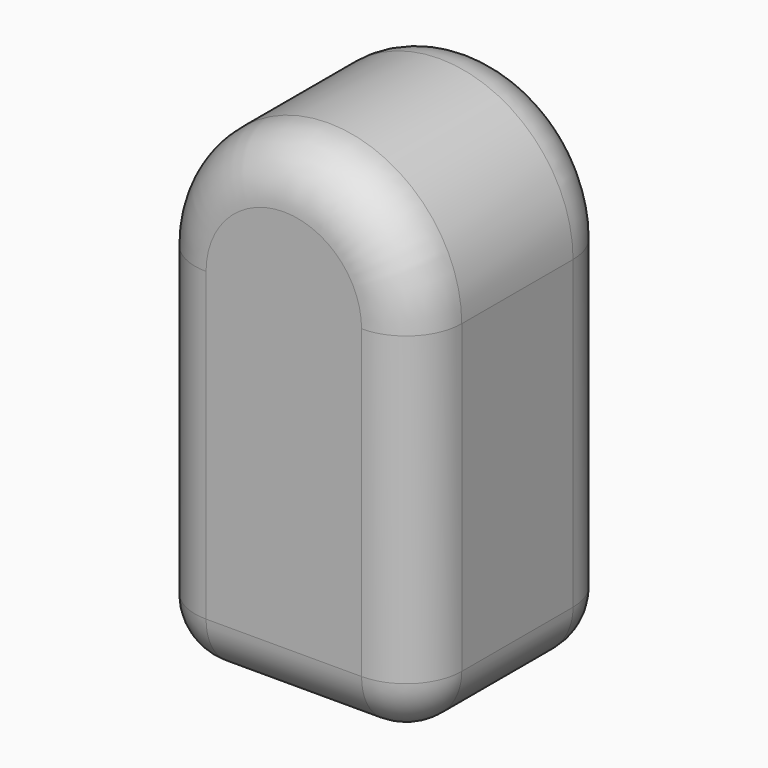
from build123d import *

# Parameters (mm, degrees)
F0_R     = 19.4977351631
F1_DEPTH = 22.5
F2_R     = 10


with BuildPart() as f1:
    # F0 (on Front) → F1 (new body, symmetric)
    with BuildSketch(Plane.XZ):
        with BuildLine():
            Line((-23.9709949473, -32.5), (23.9709949473, -32.5))
            Line((23.9709949473, -32.5), (23.9709949473, 32.5))
            ThreePointArc((23.9709949473, 32.5), (0, 56.4709949473), (-23.9709949473, 32.5))
            Line((-23.9709949473, 32.5), (-23.9709949473, -32.5))
        make_face()
        with Locations((0, 32.5)):
            Circle(F0_R, mode=Mode.SUBTRACT)
        with Locations((0, 32.5)):
            Circle(F0_R)
    extrude(amount=F1_DEPTH, both=True)

    # F2
    f2_edges = [f1.edges().sort_by_distance(p)[0] for p in [
        (0, -22.5, -32.5),
        (-23.970995, -22.5, 0),
        (23.970995, 0, -32.5),
        (-23.970995, 0, -32.5),
        (23.970995, 22.5, 0),
        (0, 22.5, -32.5),
    ]]
    fillet(f2_edges, radius=F2_R)


solid = f1.part
